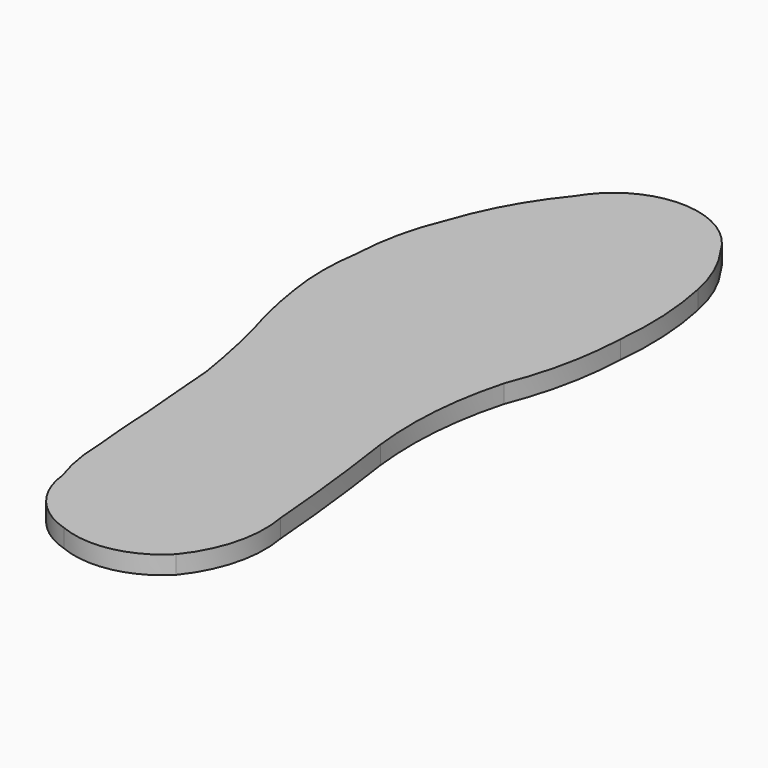
from build123d import *

# Parameters (mm, degrees)
F1_DEPTH = 1.27


with BuildPart() as f1:
    # F0 (on Top) → F1 (new body)
    with BuildSketch(Plane.XY):
        with BuildLine():
            ThreePointArc((-2.882069, 17.221197), (-3.590437, 19.489788), (-4.770173, 21.55292))
            ThreePointArc((-4.770173, 21.55292), (-9.848493, 24.526917), (-14.97957, 21.644898))
            ThreePointArc((-14.97957, 21.644898), (-17.126716, 18.50464), (-18.658631, 15.022587))
            ThreePointArc((-18.658631, 15.022587), (-19.628382, 12.011872), (-20.028973, 8.874301))
            ThreePointArc((-20.028973, 8.874301), (-20.243217, 6.190879), (-20.028973, 3.507457))
            ThreePointArc((-20.028973, 3.507457), (-19.536147, 0.849985), (-18.824216, -1.757349))
            ThreePointArc((-18.824216, -1.757349), (-18.221226, -4.422973), (-17.734695, -7.112292))
            ThreePointArc((-17.734695, -7.112292), (-17.5082, -9.985099), (-17.261155, -12.856212))
            ThreePointArc((-17.261155, -12.856212), (-17.121014, -15.18523), (-16.90908, -17.508816))
            ThreePointArc((-16.90908, -17.508816), (-16.723027, -19.570727), (-16.204746, -21.575091))
            ThreePointArc((-16.204746, -21.575091), (-14.961127, -24.553308), (-12.275964, -26.343912))
            ThreePointArc((-12.275964, -26.343912), (-8.705685, -26.680746), (-5.55828, -24.961971))
            ThreePointArc((-5.55828, -24.961971), (-3.915633, -21.699123), (-3.790411, -18.048262))
            ThreePointArc((-3.790411, -18.048262), (-4.280415, -12.974763), (-4.946626, -7.921382))
            ThreePointArc((-4.946626, -7.921382), (-5.055093, -2.952952), (-4.197766, 1.942152))
            ThreePointArc((-4.197766, 1.942152), (-3.012476, 5.886456), (-2.503398, 9.973422))
            ThreePointArc((-2.503398, 9.973422), (-2.409428, 13.612111), (-2.882069, 17.221197))
        make_face()
    extrude(amount=F1_DEPTH)


solid = f1.part
